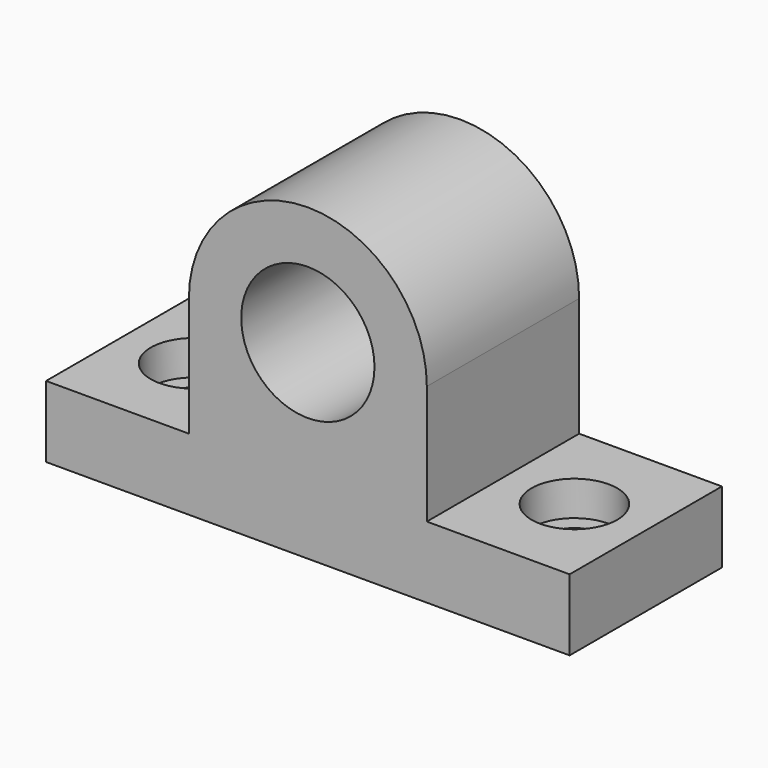
from build123d import *

# Parameters (mm, degrees)
F0_R           = 14
F1_DEPTH       = 40
F4_D           = 11
F4_CBORE_D     = 18
F4_CBORE_DEPTH = 7.3


with BuildPart() as f1:
    # F0 (on Front) → F1 (new body)
    with BuildSketch(Plane.XZ):
        with BuildLine():
            Line((-31.928091, 15), (-31.928091, 7.7))
            Line((-31.928091, 7.7), (-31.928091, 0))
            Line((-31.928091, 0), (78.071909, 0))
            Line((78.071909, 0), (78.071909, 7.7))
            Line((78.071909, 7.7), (78.071909, 15))
            Line((78.071909, 15), (48.071909, 15))
            Line((48.071909, 15), (48.071909, 27.340618))
            Line((48.071909, 27.340618), (48.071909, 40))
            ThreePointArc((48.071909, 40), (23.071909, 65), (-1.928091, 40))
            Line((-1.928091, 40), (-1.928091, 27.340618))
            Line((-1.928091, 27.340618), (-1.928091, 15))
            Line((-1.928091, 15), (-31.928091, 15))
        make_face()
        with Locations((23.071909, 40)):
            Circle(F0_R, mode=Mode.SUBTRACT)
    extrude(amount=F1_DEPTH)

    # F4 (through all)
    with Locations(Plane.XY.offset(15)):
        with Locations((-16.928091, -20), (63.071909, -20)):
            CounterBoreHole(F4_D / 2, F4_CBORE_D / 2, F4_CBORE_DEPTH)


solid = f1.part
